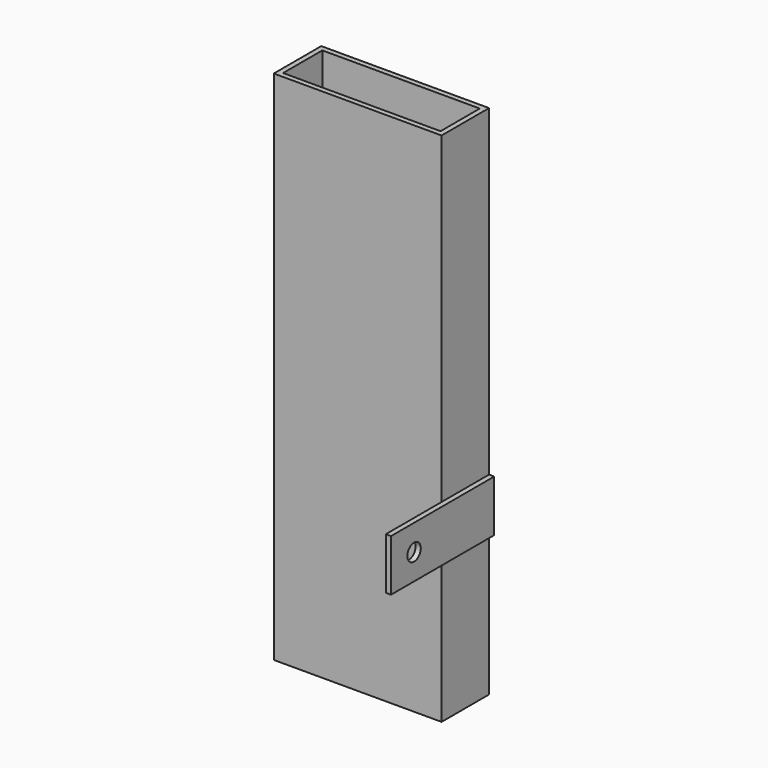
from build123d import *

# Parameters (mm, degrees)
F0_W      = 65
F0_H      = 200
F1_DEPTH  = 2
F2_W      = 21
F2_H      = 200
F3_DEPTH  = 2
F4_W      = 63
F4_H      = 200
F5_DEPTH  = 2
F6_W      = 19
F6_H      = 200
F7_DEPTH  = 2
F8_W      = 23
F8_H      = 20
F8_W_2    = 27
F9_DEPTH  = 2
F10_R     = 3.25
F11_DEPTH = 2


with BuildPart() as f1:
    # F0 (on Front) → F1 (new body)
    with BuildSketch(Plane.XZ):
        with Locations((32.5, -100)):
            Rectangle(F0_W, F0_H)
    extrude(amount=-F1_DEPTH)

    # F2 (on face) → F3 (join)
    with BuildSketch(Plane.YZ.offset(65)):
        with Locations((12.5, -100)):
            Rectangle(F2_W, F2_H)
    extrude(amount=-F3_DEPTH)

    # F4 (on face) → F5 (join)
    with BuildSketch(Plane(origin=(0, 23, 0), x_dir=(-1, 0, 0), z_dir=(0, 1, 0))):
        with Locations((-31.5, -100)):
            Rectangle(F4_W, F4_H)
    extrude(amount=-F5_DEPTH)

    # F6 (on face) → F7 (join)
    with BuildSketch(Plane(origin=(0, 0, 0), x_dir=(0, -1, 0), z_dir=(-1, 0, 0))):
        with Locations((-11.5, -100)):
            Rectangle(F6_W, F6_H)
    extrude(amount=-F7_DEPTH)

    # F8 (on face) → F9 (join)
    with BuildSketch(Plane.YZ.offset(65)):
        with Locations((11.5, -135)):
            Rectangle(F8_W, F8_H)
        with Locations((-13.5, -135)):
            Rectangle(F8_W_2, F8_H)
    extrude(amount=F9_DEPTH)

    # F10 (on face) → F11 (cut)
    with BuildSketch(Plane.YZ.offset(67)):
        with Locations((-15.811404, -135)):
            Circle(F10_R)
    extrude(amount=-F11_DEPTH, mode=Mode.SUBTRACT)


solid = f1.part
